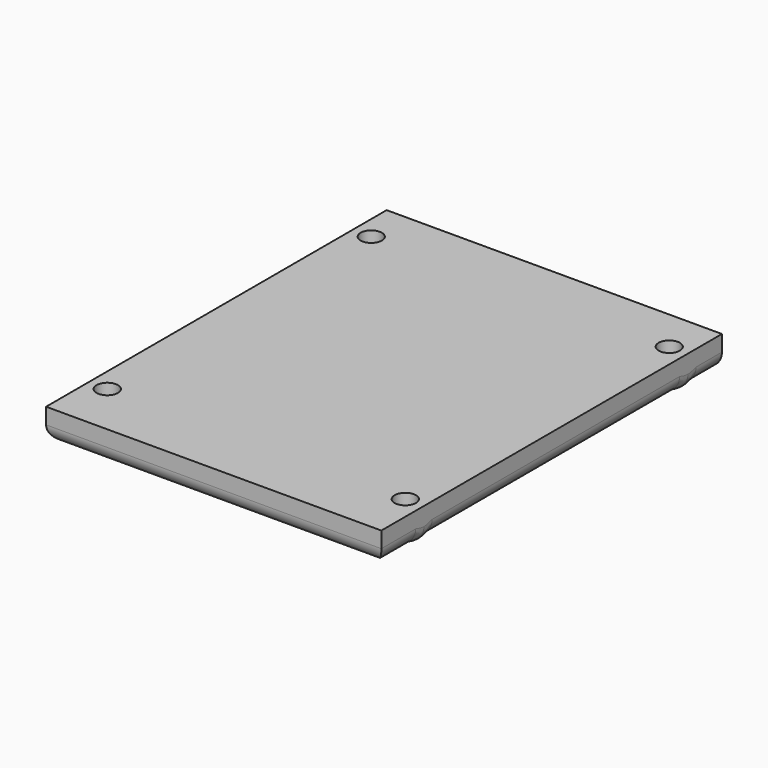
from build123d import *

# Parameters (mm, degrees)
SKETCH017_W      = 31.5
SKETCH017_H      = 40
EXTRUDE001_DEPTH = 3
PAD_DEPTH        = 10
SKETCH001_W      = 1
SKETCH001_H      = 5
POCKET_DEPTH     = 54
SKETCH002_W      = 32
SKETCH002_H      = 2
POCKET001_DEPTH  = 40.5
SKETCH003_W      = 33
SKETCH003_H      = 3
POCKET002_DEPTH  = 38
POCKET003_DEPTH  = 5
SKETCH004_R      = 1
POCKET004_DEPTH  = 10
SKETCH006_W      = 40
SKETCH006_H      = 34
SKETCH006_R      = 1
PAD001_DEPTH     = 13
POCKET005_DEPTH  = 36
SKETCH008_W      = 40
SKETCH008_H      = 24
POCKET006_DEPTH  = 13
SKETCH009_W      = 40
SKETCH009_H      = 13
POCKET007_DEPTH  = 2
SKETCH010_W      = 12
SKETCH010_H      = 2.5
POCKET008_DEPTH  = 3
SKETCH011_W      = 16
SKETCH011_H      = 18
PAD002_DEPTH     = 10
POCKET009_DEPTH  = 16
SKETCH013_R      = 0.8
POCKET010_DEPTH  = 16
FILLET_R         = 1.5
FILLET001_R      = 0.5
SKETCH014_W      = 3
SKETCH014_H      = 1
POCKET011_DEPTH  = 38
SKETCH015_W      = 32
SKETCH015_H      = 40.5
POCKET012_DEPTH  = 2
POCKET013_DEPTH  = 10
SKETCH018_W      = 24
SKETCH018_H      = 38
PAD003_DEPTH     = 3
FILLET002_R      = 1.5


with BuildPart() as extrude001:
    # Sketch017 → Extrude001 (new body)
    with BuildSketch(Plane.XY.offset(6)):
        with Locations((8, 31)):
            Rectangle(SKETCH017_W, SKETCH017_H)
    extrude(amount=-EXTRUDE001_DEPTH)


with BuildPart() as pocket008:
    # Sketch → Pad (new body)
    with BuildSketch(Plane.XY):
        Polygon((28, 51), (28, 9), (16, 0), (0, 0), (-12, 9), (-12, 51), (-4, 51), (-4, 13), (20, 13), (20, 51), align=None)
    extrude(amount=PAD_DEPTH)

    # Sketch001 → Pocket (cut)
    with BuildSketch(Plane(origin=(0, 51, 0), x_dir=(-1, 0, 0), z_dir=(0, 1, 0))):
        with Locations((-27.5, 5)):
            Rectangle(SKETCH001_W, SKETCH001_H)
        with Locations((11.5, 5)):
            Rectangle(SKETCH001_W, SKETCH001_H)
    extrude(amount=-POCKET_DEPTH, mode=Mode.SUBTRACT)

    # Sketch002 → Pocket001 (cut)
    with BuildSketch(Plane(origin=(0, 51, 0), x_dir=(-1, 0, 0), z_dir=(0, 1, 0))):
        with Locations((-8, 7)):
            Rectangle(SKETCH002_W, SKETCH002_H)
    extrude(amount=-POCKET001_DEPTH, mode=Mode.SUBTRACT)

    # Sketch003 → Pocket002 (cut)
    with BuildSketch(Plane(origin=(0, 51, 0), x_dir=(-1, 0, 0), z_dir=(0, 1, 0))):
        with Locations((-8, 1.5)):
            Rectangle(SKETCH003_W, SKETCH003_H)
    extrude(amount=-POCKET002_DEPTH, mode=Mode.SUBTRACT)

    # Sketch005 → Pocket003 (cut)
    with BuildSketch(Plane.XY.offset(2.5)):
        Polygon((16, 0), (16, 0.75), (28, 9.75), (28, 9), align=None)
        Polygon((0, 0), (0, 0.75), (-12, 9.75), (-12, 9), align=None)
    extrude(amount=POCKET003_DEPTH, mode=Mode.SUBTRACT)

    # Sketch004 → Pocket004 (cut)
    with BuildSketch(Plane.XY.offset(10)):
        with Locations((-6, 16)):
            Circle(SKETCH004_R)
        with Locations((-6, 47)):
            Circle(SKETCH004_R)
        with Locations((22, 47)):
            Circle(SKETCH004_R)
        with Locations((22, 16)):
            Circle(SKETCH004_R)
    extrude(amount=-POCKET004_DEPTH, mode=Mode.SUBTRACT)

    # Sketch006 → Pad001 (new body)
    with BuildSketch(Plane(origin=(0, 0, 0), x_dir=(1, 0, 0), z_dir=(0, 0, -1))):
        with Locations((8, -34)):
            Rectangle(SKETCH006_W, SKETCH006_H)
        with Locations((-6, -19)):
            Circle(SKETCH006_R, mode=Mode.SUBTRACT)
        with Locations((-6, -47)):
            Circle(SKETCH006_R, mode=Mode.SUBTRACT)
        with Locations((22, -47)):
            Circle(SKETCH006_R, mode=Mode.SUBTRACT)
        with Locations((22, -19)):
            Circle(SKETCH006_R, mode=Mode.SUBTRACT)
    extrude(amount=PAD001_DEPTH)

    # Sketch007 → Pocket005 (cut)
    with BuildSketch(Plane(origin=(0, 51, 0), x_dir=(-1, 0, 0), z_dir=(0, 1, 0))):
        Polygon((-28, 0), (-27.5, -2), (-27.5, -13), (-28, -13), align=None)
        Polygon((12, 0), (11.5, -2), (11.5, -13), (12, -13), align=None)
    extrude(amount=-POCKET005_DEPTH, mode=Mode.SUBTRACT)

    # Sketch008 → Pocket006 (cut)
    with BuildSketch(Plane(origin=(0, 0, -13), x_dir=(1, 0, 0), z_dir=(0, 0, -1))):
        with Locations((8, -33)):
            Rectangle(SKETCH008_W, SKETCH008_H)
    extrude(amount=-POCKET006_DEPTH, mode=Mode.SUBTRACT)

    # Sketch009 → Pocket007 (cut)
    with BuildSketch(Plane(origin=(0, 51, 0), x_dir=(-1, 0, 0), z_dir=(0, 1, 0))):
        with Locations((-8, -6.5)):
            Rectangle(SKETCH009_W, SKETCH009_H)
    extrude(amount=-POCKET007_DEPTH, mode=Mode.SUBTRACT)

    # Sketch010 → Pocket008 (cut)
    with BuildSketch(Plane(origin=(0, 51, 0), x_dir=(-1, 0, 0), z_dir=(0, 1, 0))):
        with Locations((-4, 3.75)):
            Rectangle(SKETCH010_W, SKETCH010_H)
    extrude(amount=-POCKET008_DEPTH, mode=Mode.SUBTRACT)


with BuildPart() as fillet002:
    # Sketch011 → Pad002 (new body)
    with BuildSketch(Plane.XY):
        with Locations((8, -9)):
            Rectangle(SKETCH011_W, SKETCH011_H)
    extrude(amount=PAD002_DEPTH)

    # Sketch012 → Pocket009 (cut)
    with BuildSketch(Plane.XZ.offset(18)):
        Polygon((5, 7.5), (0, 7.5), (0, 10), (16, 10), (16, 7.5), (11, 7.5), (11, 2.5), (16, 2.5), (16, 0), (0, 0), (0, 2.5), (5, 2.5), align=None)
    extrude(amount=-POCKET009_DEPTH, mode=Mode.SUBTRACT)

    # Sketch013 → Pocket010 (cut)
    with BuildSketch(Plane.YZ.offset(16)):
        with Locations((-14, 5)):
            Circle(SKETCH013_R)
        with Locations((-10, 4.9768)):
            Circle(SKETCH013_R)
        with Locations((-6, 4.99368)):
            Circle(SKETCH013_R)
    extrude(amount=-POCKET010_DEPTH, mode=Mode.SUBTRACT)

    # Fusion: union Pocket008
    add(pocket008.part)

    # Fillet
    fillet_edges = [fillet002.edges().sort_by_distance(p)[0] for p in [
        (-6, 4.5, 10),
        (28, 30, 10),
        (22, 4.5, 10),
        (-12, 30, 10),
    ]]
    fillet(fillet_edges, radius=FILLET_R)

    # Fillet001
    fillet001_edges = [fillet002.edges().sort_by_distance(p)[0] for p in [
        (5, -10, 7.5),
        (2.5, -18, 7.5),
        (5, -18, 5),
        (2.5, -18, 2.5),
        (5, -10, 2.5),
        (13.5, -18, 7.5),
        (11, -10, 7.5),
        (11, -10, 2.5),
        (11, -18, 5),
        (13.5, -18, 2.5),
    ]]
    fillet(fillet001_edges, radius=FILLET001_R)

    # Sketch014 → Pocket011 (cut)
    with BuildSketch(Plane(origin=(-11, 0, 0), x_dir=(0, -1, 0), z_dir=(-1, 0, 0))):
        with Locations((-43.5, 7)):
            Rectangle(SKETCH014_W, SKETCH014_H)
        with Locations((-31.5, 7)):
            Rectangle(SKETCH014_W, SKETCH014_H)
        with Locations((-19.5, 7)):
            Rectangle(SKETCH014_W, SKETCH014_H)
    extrude(amount=-POCKET011_DEPTH, mode=Mode.SUBTRACT)

    # Sketch015 → Pocket012 (cut)
    with BuildSketch(Plane.XY.offset(10)):
        with Locations((8, 30.75)):
            Rectangle(SKETCH015_W, SKETCH015_H)
    extrude(amount=-POCKET012_DEPTH, mode=Mode.SUBTRACT)

    # Sketch016 → Pocket013 (cut)
    with BuildSketch(Plane(origin=(0, 0, 0), x_dir=(1, 0, 0), z_dir=(0, 0, -1))):
        with BuildLine():
            ThreePointArc((-12, -49), (-11.414214, -50.414214), (-10, -51))
            Line((-12, -51), (-10, -51))
            Line((-12, -49), (-12, -51))
        make_face()
        with BuildLine():
            ThreePointArc((26, -51), (27.414214, -50.414214), (28, -49))
            Line((28, -51), (28, -49))
            Line((26, -51), (28, -51))
        make_face()
    extrude(amount=-POCKET013_DEPTH, mode=Mode.SUBTRACT)

    # Common: intersect Extrude001
    add(extrude001.part, mode=Mode.INTERSECT)

    # Sketch018 → Pad003 (new body)
    with BuildSketch(Plane.XY.offset(6)):
        with Locations((8, 32)):
            Rectangle(SKETCH018_W, SKETCH018_H)
    extrude(amount=-PAD003_DEPTH)

    # Fillet002
    fillet002_edges = [fillet002.edges().sort_by_distance(p)[0] for p in [
        (23.75, 32, 3),
        (23.75, 12, 3),
        (8, 11, 3),
        (-7.75, 12, 3),
        (-7.75, 32, 3),
    ]]
    fillet(fillet002_edges, radius=FILLET002_R)


solid = fillet002.part
